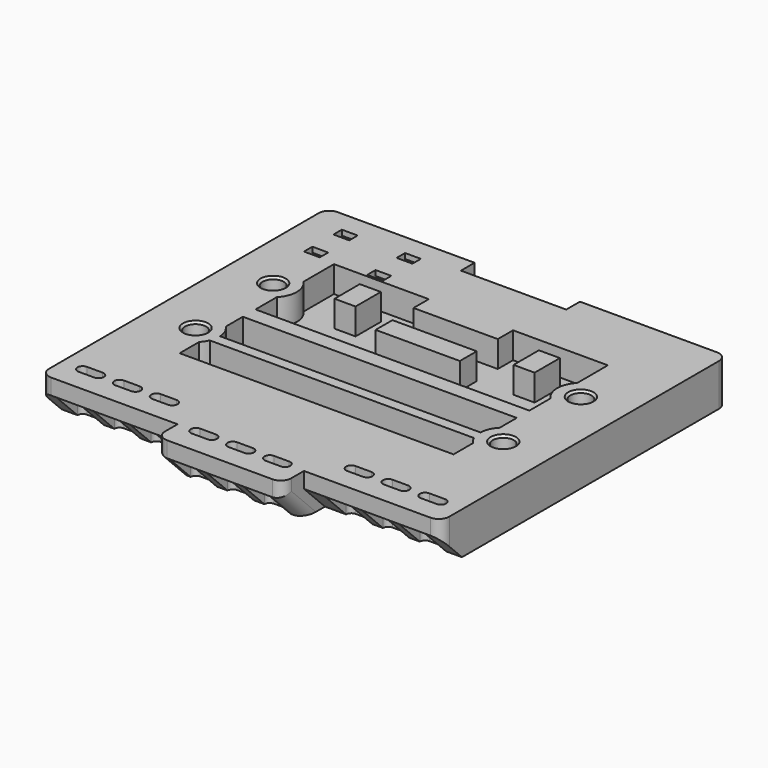
from build123d import *

# Parameters (mm, degrees)
SKETCH034_W              = 76
SKETCH034_H              = 73
PAD009_DEPTH             = 8
SKETCH035_W              = 52
SKETCH035_H              = 39.25
POCKET025_DEPTH          = 5
SKETCH036_R              = 4.5
PAD010_DEPTH             = 8
SKETCH037_R              = 2
POCKET026_DEPTH          = 8.001
SKETCH038_W              = 4
SKETCH038_H              = 6
SKETCH038_W_2            = 16
SKETCH038_H_2            = 4
SKETCH038_W_3            = 52
SKETCH038_H_3            = 3
SKETCH038_H_4            = 2
PAD011_DEPTH             = 8
SKETCH039_W              = 26
SKETCH039_H              = 5
POCKET027_DEPTH          = 8.001
SKETCH040_R              = 3.2
POCKET028_DEPTH          = 3
SKETCH047_W              = 20
SKETCH047_H              = 3.25
POCKET031_DEPTH          = 2.5
POCKET032_DEPTH          = 38.001
POCKET032_DEPTH_BACK     = 38.001
POCKET033_DEPTH          = 26
POCKET034_DEPTH          = 26
POCKET035_DEPTH          = 8.001
SKETCH052_W              = 5
SKETCH052_H              = 5
POCKET036_DEPTH          = 5
FILLET007013_R           = 2
CHAMFER013004014016_SIZE = 0.4
POCKET037_DEPTH          = 3
LINEARPATTERN_COUNT      = 2
LINEARPATTERN_PITCH      = 12


with BuildPart() as part:
    # Sketch034 → Pad009 (new body)
    with BuildSketch(Plane.XY):
        with Locations((0, -3.5)):
            Rectangle(SKETCH034_W, SKETCH034_H)
    extrude(amount=PAD009_DEPTH)

    # Sketch035 (on DatumPlane) → Pocket025 (cut)
    with BuildSketch(Plane.XY.offset(8)):
        Rectangle(SKETCH035_W, SKETCH035_H)
    extrude(amount=-POCKET025_DEPTH, mode=Mode.SUBTRACT)

    # Sketch036 (on DatumPlane) → Pad010 (join)
    with BuildSketch(Plane.XY):
        with Locations((-29.21, 9.2075)):
            Circle(SKETCH036_R)
        with Locations((-29.21, -9.2075)):
            Circle(SKETCH036_R)
        with Locations((29.21, 9.2075)):
            Circle(SKETCH036_R)
        with Locations((29.21, -9.2075)):
            Circle(SKETCH036_R)
    extrude(amount=PAD010_DEPTH)

    # Sketch037 (on DatumPlane) → Pocket026 (cut, through all)
    with BuildSketch(Plane.XY):
        with Locations((-29.21, 9.2075)):
            Circle(SKETCH037_R)
        with Locations((-29.21, -9.2075)):
            Circle(SKETCH037_R)
        with Locations((29.21, 9.2075)):
            Circle(SKETCH037_R)
        with Locations((29.21, -9.2075)):
            Circle(SKETCH037_R)
    extrude(amount=POCKET026_DEPTH, mode=Mode.SUBTRACT)

    # Sketch038 (on DatumPlane) → Pad011 (join)
    with BuildSketch(Plane.XY):
        with Locations((-17, 14)):
            Rectangle(SKETCH038_W, SKETCH038_H)
        with Locations((17, 14)):
            Rectangle(SKETCH038_W, SKETCH038_H)
        with Locations((0, 18)):
            Rectangle(SKETCH038_W_2, SKETCH038_H_2)
        with Locations((0, -0.5)):
            Rectangle(SKETCH038_W_3, SKETCH038_H_3)
        with Locations((0, -10)):
            Rectangle(SKETCH038_W_3, SKETCH038_H_4)
        with Locations((0, -18.5)):
            Rectangle(SKETCH038_W_3, SKETCH038_H_3)
        with Locations((0, 9)):
            Rectangle(SKETCH038_W_2, SKETCH038_H_2)
    extrude(amount=PAD011_DEPTH)

    # Sketch039 (on DatumPlane) → Pocket027 (cut, through all)
    with BuildSketch(Plane.XY):
        with Locations((-25, -37.5)):
            Rectangle(SKETCH039_W, SKETCH039_H)
        with Locations((25, -37.5)):
            Rectangle(SKETCH039_W, SKETCH039_H)
    extrude(amount=POCKET027_DEPTH, mode=Mode.SUBTRACT)

    # Sketch040 (on DatumPlane) → Pocket028 (cut)
    with BuildSketch(Plane.XY):
        with Locations((-29.21, -9.2075)):
            Circle(SKETCH040_R)
        with Locations((29.21, -9.2075)):
            Circle(SKETCH040_R)
    extrude(amount=POCKET028_DEPTH, mode=Mode.SUBTRACT)

    # Sketch047 (on DatumPlane) → Pocket031 (cut)
    with BuildSketch(Plane.XY.offset(8)):
        with Locations((0, 31.375)):
            Rectangle(SKETCH047_W, SKETCH047_H)
    extrude(amount=-POCKET031_DEPTH, mode=Mode.SUBTRACT)

    # Sketch048 (on DatumPlane) → Pocket032 (cut, two sides)
    with BuildSketch(Plane.YZ) as pocket032_sk:
        Polygon((-40, 5), (-40, 0), (-35, 0), align=None)
    extrude(amount=-POCKET032_DEPTH, mode=Mode.SUBTRACT)
    extrude(pocket032_sk.sketch, amount=POCKET032_DEPTH_BACK, mode=Mode.SUBTRACT)

    # Sketch049 (on DatumPlane) → Pocket033 (cut)
    with BuildSketch(Plane.YZ.offset(38)):
        Polygon((-35, 5), (-30, 0), (-35, 0), align=None)
    extrude(amount=-POCKET033_DEPTH, mode=Mode.SUBTRACT)

    # Sketch050 (on DatumPlane) → Pocket034 (cut)
    with BuildSketch(Plane.YZ.offset(-38)):
        Polygon((-35, 5), (-35, 0), (-30, 0), align=None)
    extrude(amount=POCKET034_DEPTH, mode=Mode.SUBTRACT)

    # Sketch051 (on DatumPlane) → Pocket035 (cut, through all)
    with BuildSketch(Plane.XY.offset(8)):
        with BuildLine():
            ThreePointArc((-34, -29), (-35, -30), (-34, -31))
            Line((-34, -31), (-31, -31))
            ThreePointArc((-31, -31), (-30, -30), (-31, -29))
            Line((-34, -29), (-31, -29))
        make_face()
        with BuildLine():
            ThreePointArc((-27, -29), (-28, -30), (-27, -31))
            Line((-27, -31), (-24, -31))
            ThreePointArc((-24, -31), (-23, -30), (-24, -29))
            Line((-27, -29), (-24, -29))
        make_face()
        with BuildLine():
            ThreePointArc((-20, -29), (-21, -30), (-20, -31))
            Line((-20, -31), (-17, -31))
            ThreePointArc((-17, -31), (-16, -30), (-17, -29))
            Line((-20, -29), (-17, -29))
        make_face()
        with BuildLine():
            ThreePointArc((17, -29), (16, -30), (17, -31))
            Line((17, -31), (20, -31))
            ThreePointArc((20, -31), (21, -30), (20, -29))
            Line((17, -29), (20, -29))
        make_face()
        with BuildLine():
            ThreePointArc((24, -29), (23, -30), (24, -31))
            Line((24, -31), (27, -31))
            ThreePointArc((27, -31), (28, -30), (27, -29))
            Line((24, -29), (27, -29))
        make_face()
        with BuildLine():
            ThreePointArc((31, -29), (30, -30), (31, -31))
            Line((31, -31), (34, -31))
            ThreePointArc((34, -31), (35, -30), (34, -29))
            Line((31, -29), (34, -29))
        make_face()
        with BuildLine():
            ThreePointArc((-8.5, -34), (-9.5, -35), (-8.5, -36))
            Line((-8.5, -36), (-5.5, -36))
            ThreePointArc((-5.5, -36), (-4.5, -35), (-5.5, -34))
            Line((-8.5, -34), (-5.5, -34))
        make_face()
        with BuildLine():
            ThreePointArc((-1.5, -34), (-2.5, -35), (-1.5, -36))
            Line((-1.5, -36), (1.5, -36))
            ThreePointArc((1.5, -36), (2.5, -35), (1.5, -34))
            Line((-1.5, -34), (1.5, -34))
        make_face()
        with BuildLine():
            ThreePointArc((5.5, -34), (4.5, -35), (5.5, -36))
            Line((5.5, -36), (8.41, -36))
            ThreePointArc((8.41, -36), (9.41, -35), (8.41, -34))
            Line((5.5, -34), (8.41, -34))
        make_face()
    extrude(amount=-POCKET035_DEPTH, mode=Mode.SUBTRACT)

    # Sketch052 (on DatumPlane) → Pocket036 (cut)
    with BuildSketch(Plane.XY):
        with Locations((-32.5, -32.5)):
            Rectangle(SKETCH052_W, SKETCH052_H)
        with Locations((-25.5, -32.5)):
            Rectangle(SKETCH052_W, SKETCH052_H)
        with Locations((-18.5, -32.5)):
            Rectangle(SKETCH052_W, SKETCH052_H)
        with Locations((-7, -37.5)):
            Rectangle(SKETCH052_W, SKETCH052_H)
        with Locations((0, -37.5)):
            Rectangle(SKETCH052_W, SKETCH052_H)
        with Locations((7, -37.5)):
            Rectangle(SKETCH052_W, SKETCH052_H)
        with Locations((18.5, -32.5)):
            Rectangle(SKETCH052_W, SKETCH052_H)
        with Locations((25.5, -32.5)):
            Rectangle(SKETCH052_W, SKETCH052_H)
        with Locations((32.5, -32.5)):
            Rectangle(SKETCH052_W, SKETCH052_H)
    extrude(amount=POCKET036_DEPTH, mode=Mode.SUBTRACT)

    # Fillet007013
    fillet007013_edges = [part.edges().sort_by_distance(p)[0] for p in [
        (-38, 33, 4),
        (-38, -35, 6.5),
        (-12, -40, 6.5),
        (12, -40, 6.5),
        (38, -35, 6.5),
        (38, 33, 4),
        (-12, -37.5, 2.5),
        (12, -37.5, 2.5),
    ]]
    fillet(fillet007013_edges, radius=FILLET007013_R)

    # Chamfer013004014016
    chamfer013004014016_edges = [part.edges().sort_by_distance(p)[0] for p in [
        (-31.21, 9.2075, 0),
        (-32.41, -9.2075, 0),
        (27.21, 9.2075, 0),
        (26.01, -9.2075, 0),
        (-31.21, 9.2075, 8),
        (-31.21, -9.2075, 8),
        (27.21, 9.2075, 8),
        (27.21, -9.2075, 8),
    ]]
    chamfer(chamfer013004014016_edges, length=CHAMFER013004014016_SIZE)

    # Sketch053 (on DatumPlane) → Pocket037 (cut)
    with BuildSketch(Plane.YZ.offset(-32)):
        Polygon((22, 8), (22, 7), (23, 6), (26, 6), (27, 7), (27, 8), (29, 8), (29, 7), (26, 4), (23, 4), (20, 7), (20, 8), align=None)
    pocket037 = extrude(amount=POCKET037_DEPTH, mode=Mode.SUBTRACT)

    # LinearPattern: Pocket037 ×2
    with Locations(*[(i * LINEARPATTERN_PITCH, 0, 0) for i in range(1, LINEARPATTERN_COUNT)]):
        add(pocket037, mode=Mode.SUBTRACT)


solid = part.part
